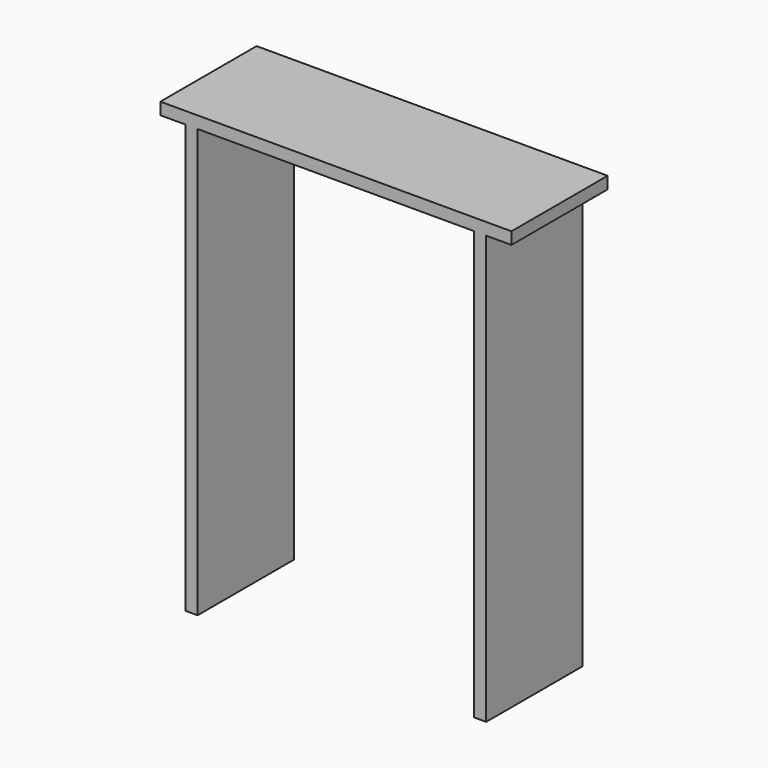
from build123d import *

# Parameters (mm, degrees)
F0_W     = 50
F0_H     = 1780
F1_DEPTH = 500


with BuildPart() as f1:
    # F0 (on Front) → F1 (new body)
    with BuildSketch(Plane.XZ):
        Rectangle(F0_W, F0_H)
        Polygon((-25, 890), (25, 890), (1175, 890), (1225, 890), (1329.813147, 890), (1329.813147, 940), (-129.813147, 940), (-129.813147, 890), align=None)
        with Locations((1200, 0)):
            Rectangle(F0_W, F0_H)
    extrude(amount=F1_DEPTH)


solid = f1.part
